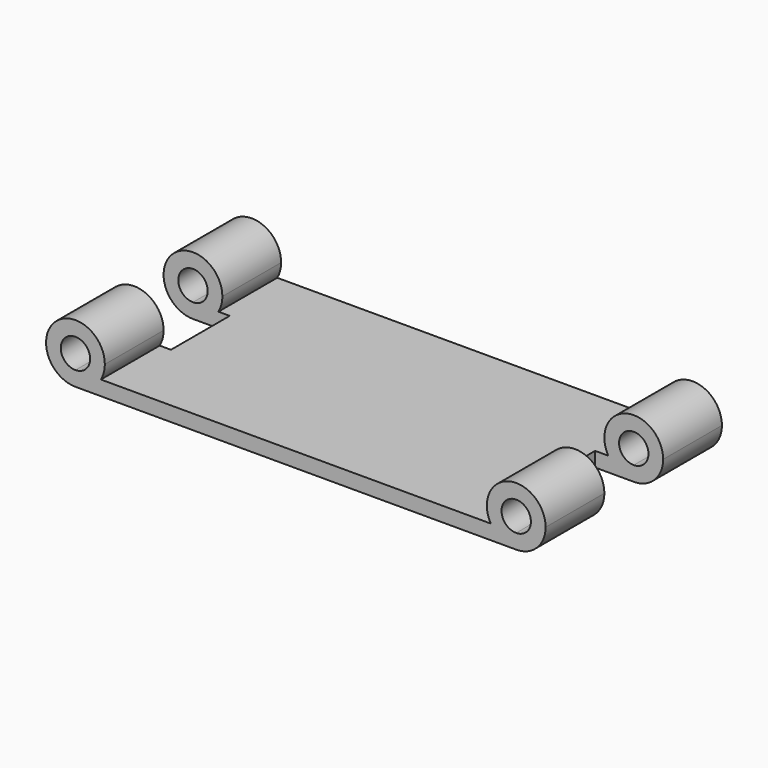
from build123d import *

# Parameters (mm, degrees)
F1_DEPTH = 30
F2_W     = 5
F2_H     = 10
F3_DEPTH = 25
F2_W_2   = 4
F4_DEPTH = 25


with BuildPart() as f1:
    # F0 (on Front) → F1 (new body)
    with BuildSketch(Plane.XZ):
        with BuildLine():
            Line((0, -2), (0, -4))
            ThreePointArc((0, -4), (2, -3.4641016151), (3.4641016151, -2))
            Line((3.4641016151, -2), (0, -2))
        make_face()
        with BuildLine():
            ThreePointArc((3.4641016151, -2), (2, -3.4641016151), (0, -4))
            Line((0, -4), (59.7362193561, -4))
            ThreePointArc((59.7362193561, -4), (57.8825422961, -3.4022855387), (56.5308853543, -2))
            Line((56.5308853543, -2), (3.4641016151, -2))
        make_face()
        with BuildLine():
            ThreePointArc((56.5308853543, -2), (57.8825422961, -3.4022855387), (59.7362193561, -4))
            Line((59.7362193561, -4), (60, -4))
            Line((60, -4), (60, -2))
            Line((60, -2), (56.5308853543, -2))
        make_face()
        with BuildLine():
            Line((60, -4), (59.7362193561, -4))
            ThreePointArc((59.7362193561, -4), (62.7335757758, -2.9289055908), (63.9999993682, -0.0087069633))
            ThreePointArc((63.9999993682, -0.0087069633), (58.9695761678, 3.8562934285), (56.5308853543, -2))
            Line((56.5308853543, -2), (60, -2))
            Line((60, -2), (60, -4))
        make_face()
        with BuildLine():
            ThreePointArc((62, 0), (61.4142135624, -1.4142135624), (60, -2))
            ThreePointArc((60, -2), (58.5857864376, 1.4142135624), (62, 0))
        make_face(mode=Mode.SUBTRACT)
        with BuildLine():
            ThreePointArc((3.4641016151, -2), (3.8637033052, -1.0352761804), (4, 0))
            ThreePointArc((4, 0), (-2.8284271247, 2.8284271247), (0, -4))
            Line((0, -4), (0, -2))
            Line((0, -2), (3.4641016151, -2))
        make_face()
        with BuildLine():
            ThreePointArc((2, 0), (1.4142135624, -1.4142135624), (0, -2))
            ThreePointArc((0, -2), (-1.4142135624, 1.4142135624), (2, 0))
        make_face(mode=Mode.SUBTRACT)
    extrude(amount=F1_DEPTH)

    # F2 (on face) → F3 (cut, symmetric)
    with BuildSketch(Plane(origin=(0, 0, -4), x_dir=(1, 0, 0), z_dir=(0, 0, -1))):
        with Locations((57.2362193561, 15)):
            Rectangle(F2_W, F2_H)
        with Locations((62.2362193561, 15)):
            Rectangle(F2_W, F2_H)
    extrude(amount=F3_DEPTH, both=True, mode=Mode.SUBTRACT)

    # F2 (on face) → F4 (cut, symmetric)
    with BuildSketch(Plane(origin=(0, 0, -4), x_dir=(1, 0, 0), z_dir=(0, 0, -1))):
        with Locations((-2, 15)):
            Rectangle(F2_W_2, F2_H)
        with Locations((2.5, 15)):
            Rectangle(F2_W, F2_H)
    extrude(amount=F4_DEPTH, both=True, mode=Mode.SUBTRACT)


solid = f1.part
